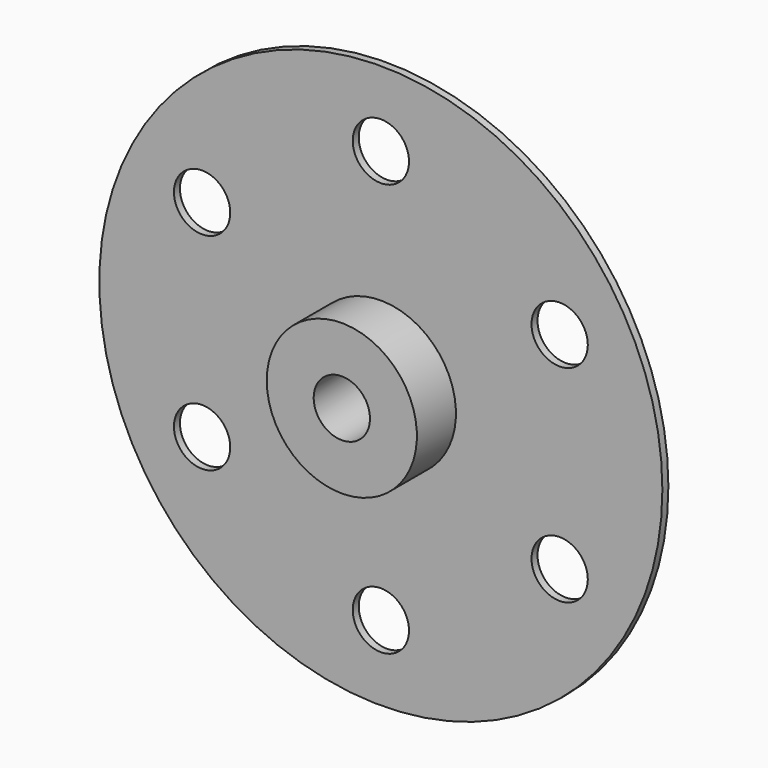
from build123d import *

# Parameters (mm, degrees)
F0_R     = 75
F0_R_2   = 7.5
F0_R_3   = 20
F1_DEPTH = 2
F2_R     = 20
F2_R_2   = 7.5
F3_DEPTH = 15


with BuildPart() as f1:
    # F0 (on Front) → F1 (new body)
    with BuildSketch(Plane.XZ):
        Circle(F0_R)
        with Locations((-47.6313972081, -27.5)):
            Circle(F0_R_2, mode=Mode.SUBTRACT)
        with Locations((0, -55)):
            Circle(F0_R_2, mode=Mode.SUBTRACT)
        with Locations((47.6313972081, -27.5)):
            Circle(F0_R_2, mode=Mode.SUBTRACT)
        with Locations((-47.6313972081, 27.5)):
            Circle(F0_R_2, mode=Mode.SUBTRACT)
        Circle(F0_R_3, mode=Mode.SUBTRACT)
        with Locations((47.6313972081, 27.5)):
            Circle(F0_R_2, mode=Mode.SUBTRACT)
        with Locations((0, 55)):
            Circle(F0_R_2, mode=Mode.SUBTRACT)
    extrude(amount=F1_DEPTH)

    # F2 (on face) → F3 (join)
    with BuildSketch(Plane(origin=(0, 0, 0), x_dir=(-1, 0, 0), z_dir=(0, 1, 0))):
        Circle(F2_R)
        Circle(F2_R_2, mode=Mode.SUBTRACT)
    extrude(amount=-F3_DEPTH)


solid = f1.part
